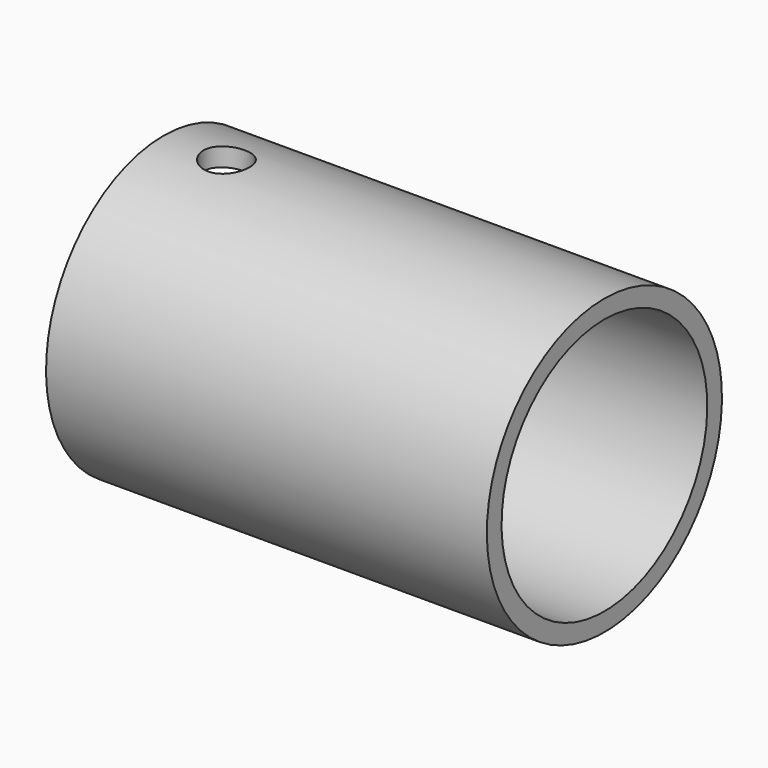
from build123d import *

# Parameters (mm, degrees)
F0_W          = 304.8
F0_H          = 12.7
F3_R          = 15.875
F4_DEPTH      = 101.601
F4_DEPTH_BACK = 101.601


with BuildPart() as f2:
    # F0 (on Front) → F2 (revolve)
    with BuildSketch(Plane.XZ):
        with Locations((152.4, 95.25)):
            Rectangle(F0_W, F0_H)
    revolve(axis=Axis((56.568854, 0, 0), (1, 0, 0)))

    # F3 (on Top) → F4 (cut, two sides)
    with BuildSketch(Plane.XY) as f4_sk:
        with Locations((43.461389, 0)):
            Circle(F3_R)
    extrude(amount=F4_DEPTH, mode=Mode.SUBTRACT)
    extrude(f4_sk.sketch, amount=-F4_DEPTH_BACK, mode=Mode.SUBTRACT)


solid = f2.part
